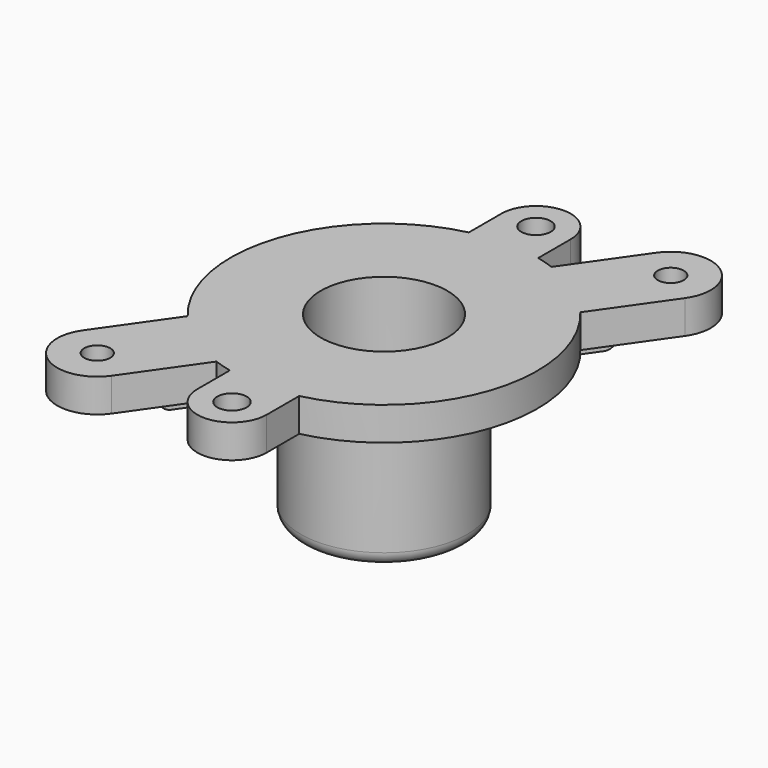
from build123d import *

# Parameters (mm, degrees)
CYLINDER032_R                = 9.5
CYLINDER032_DEPTH            = 27
CYLINDER035_R                = 23
CYLINDER035_DEPTH            = 5
CYLINDER046_R                = 2.2
CYLINDER046_DEPTH            = 5
ARRAY022_Y_COUNT             = 2
ARRAY022_Y_PITCH             = 57
BOX_W                        = 10.4
BOX_H                        = 57
BOX_DEPTH                    = 5
CYLINDER048_R                = 5.2
CYLINDER048_DEPTH            = 5
ARRAY021_Y_COUNT             = 2
ARRAY021_Y_PITCH             = 57
CUT002004004_PLACEMENT_ANGLE = 305
BOX008_W                     = 56
BOX008_H                     = 3
BOX008_DEPTH                 = 3
FILLET004_R                  = 1.6
CYLINDER031_R                = 12.5
CYLINDER031_DEPTH            = 27
FILLET_R                     = 2
CYLINDER030_R                = 1.95
CYLINDER030_DEPTH            = 5
ARRAY015_X_COUNT             = 2
ARRAY015_X_PITCH             = 70
BOX004_W                     = 70
BOX004_H                     = 12
BOX004_DEPTH                 = 5
CYLINDER029_R                = 6
CYLINDER029_DEPTH            = 5
ARRAY014_X_COUNT             = 2
ARRAY014_X_PITCH             = 70
FUSION018_PLACEMENT_ANGLE    = 55


with BuildPart() as zero_holder_internal_cylinder:
    # Cylinder032 → Cylinder032 (new body)
    with BuildSketch(Plane.XY):
        Circle(CYLINDER032_R)
    extrude(amount=CYLINDER032_DEPTH)


with BuildPart() as zero_holder_top_disk:
    # Cylinder035 → Cylinder035 (new body)
    with BuildSketch(Plane.XY.offset(22)):
        Circle(CYLINDER035_R)
    extrude(amount=CYLINDER035_DEPTH)


with BuildPart() as extract_fusion:
    # Cylinder046 → Cylinder046 (new body)
    with BuildSketch(Plane.XY):
        Circle(CYLINDER046_R)
    extrude(amount=CYLINDER046_DEPTH)

    # Array022 Y: extract fusion ×2


with BuildPart() as extract_fusion_1:
    add(extract_fusion.part)
    with Locations(*[(0, i * ARRAY022_Y_PITCH, 0) for i in range(1, ARRAY022_Y_COUNT)]):
        add(extract_fusion.part)


with BuildPart() as extract_fusion_2:
    # Array022 placement: moved
    add(extract_fusion_1.part.moved(Location((0, -28.5, 0))))


with BuildPart() as between_hole_cube:
    # Box → Box (new body)
    with BuildSketch(Plane(origin=(-5.2, -28.5, 0), x_dir=(1, 0, 0), z_dir=(0, 0, 1))):
        with Locations((5.2, 28.5)):
            Rectangle(BOX_W, BOX_H)
    extrude(amount=BOX_DEPTH)


with BuildPart() as microscope_attachment_cut:
    # Cylinder048 → Cylinder048 (new body)
    with BuildSketch(Plane.XY):
        Circle(CYLINDER048_R)
    extrude(amount=CYLINDER048_DEPTH)

    # Array021 Y: microscope attachment cut ×2


with BuildPart() as microscope_attachment_cut_1:
    add(microscope_attachment_cut.part)
    with Locations(*[(0, i * ARRAY021_Y_PITCH, 0) for i in range(1, ARRAY021_Y_COUNT)]):
        add(microscope_attachment_cut.part)


with BuildPart() as microscope_attachment_cut_2:
    # Array021 placement: moved
    add(microscope_attachment_cut_1.part.moved(Location((0, -28.5, 0))))

    # Fusion023: union between hole cube
    add(between_hole_cube.part)

    # Cut002004004: cut extract fusion
    add(extract_fusion_2.part, mode=Mode.SUBTRACT)


with BuildPart() as microscope_attachment_cut_3:
    # Cut002004004 placement: moved
    add(microscope_attachment_cut_2.part.moved(Location((0, 0, 22))).rotate(Axis((0, 0, 22), (0, 0, 1)), CUT002004004_PLACEMENT_ANGLE))


with BuildPart() as sprint_plate_fillet:
    # Box008 → Box008 (new body)
    with BuildSketch(Plane(origin=(-28, -1.5, 19), x_dir=(1, 0, 0), z_dir=(0, 0, 1))):
        with Locations((28, 1.5)):
            Rectangle(BOX008_W, BOX008_H)
    extrude(amount=BOX008_DEPTH)

    # Fillet004
    fillet004_edges = [sprint_plate_fillet.edges().sort_by_distance(p)[0] for p in [
        (-28, 0, 19),
        (28, 0, 19),
    ]]
    fillet(fillet004_edges, radius=FILLET004_R)


with BuildPart() as zero_holder_external_cylinder_fillet:
    # Cylinder031 → Cylinder031 (new body)
    with BuildSketch(Plane.XY):
        Circle(CYLINDER031_R)
    extrude(amount=CYLINDER031_DEPTH)

    # Fillet
    fillet_edges = [zero_holder_external_cylinder_fillet.edges().sort_by_distance(p)[0] for p in [
        (-12.5, 0, 0),
    ]]
    fillet(fillet_edges, radius=FILLET_R)


with BuildPart() as spring_plate_end_array003:
    # Cylinder030 → Cylinder030 (new body)
    with BuildSketch(Plane.XY):
        Circle(CYLINDER030_R)
    extrude(amount=CYLINDER030_DEPTH)

    # Array015 X: spring plate end array003 ×2


with BuildPart() as spring_plate_end_array003_1:
    add(spring_plate_end_array003.part)
    with Locations(*[(i * ARRAY015_X_PITCH, 0, 0) for i in range(1, ARRAY015_X_COUNT)]):
        add(spring_plate_end_array003.part)


with BuildPart() as cube:
    # Box004 → Box004 (new body)
    with BuildSketch(Plane(origin=(0, -6, 0), x_dir=(1, 0, 0), z_dir=(0, 0, 1))):
        with Locations((35, 6)):
            Rectangle(BOX004_W, BOX004_H)
    extrude(amount=BOX004_DEPTH)


with BuildPart() as zero_holder_cut:
    # Cylinder029 → Cylinder029 (new body)
    with BuildSketch(Plane.XY):
        Circle(CYLINDER029_R)
    extrude(amount=CYLINDER029_DEPTH)

    # Array014 X: zero holder cut ×2


with BuildPart() as zero_holder_cut_1:
    add(zero_holder_cut.part)
    with Locations(*[(i * ARRAY014_X_PITCH, 0, 0) for i in range(1, ARRAY014_X_COUNT)]):
        add(zero_holder_cut.part)

    # Fusion017: union Cube
    add(cube.part)

    # Cut010: cut spring plate end array003
    add(spring_plate_end_array003_1.part, mode=Mode.SUBTRACT)


with BuildPart() as zero_holder_cut_2:
    # Cut010 placement: moved
    add(zero_holder_cut_1.part.moved(Location((-35, 0, 22))))

    # Fusion018: union zero holder top disk, microscope attachment cut, sprint plate fillet, zero holder external cylinder fillet
    add(zero_holder_top_disk.part)
    add(microscope_attachment_cut_3.part)
    add(sprint_plate_fillet.part)
    add(zero_holder_external_cylinder_fillet.part)


with BuildPart() as zero_holder_cut_3:
    # Fusion018 placement: moved
    add(zero_holder_cut_2.part.rotate(Axis((0, 0, 0), (0, 0, 1)), FUSION018_PLACEMENT_ANGLE))

    # Cut011: cut zero holder internal cylinder
    add(zero_holder_internal_cylinder.part, mode=Mode.SUBTRACT)


solid = zero_holder_cut_3.part
